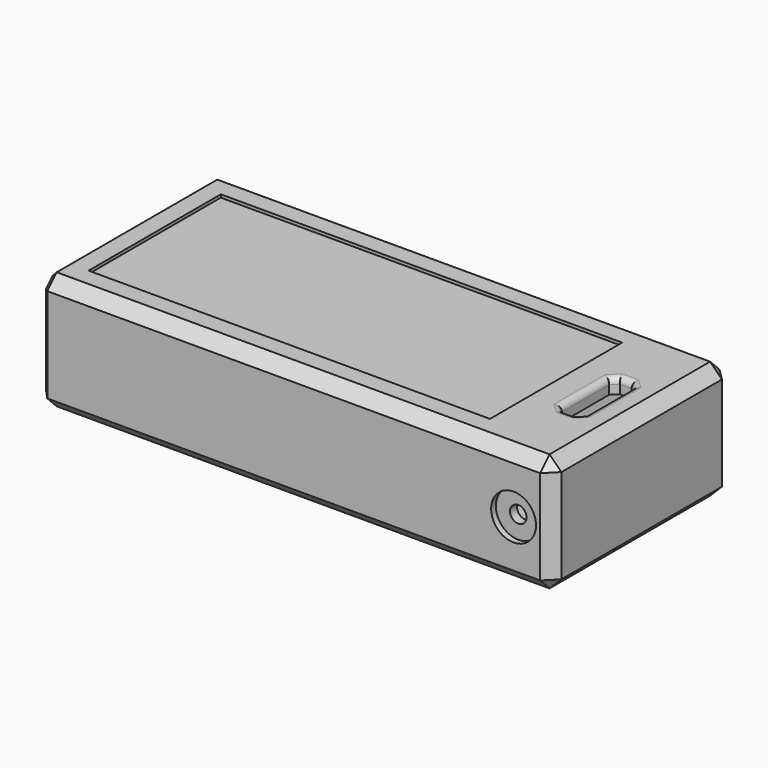
from build123d import *

# Parameters (mm, degrees)
BOX011_W           = 34
BOX011_H           = 14
BOX011_DEPTH       = 0.25
BOX010_W           = 2
BOX010_H           = 6
BOX010_DEPTH       = 11
CHAMFER002_SIZE    = 0.5
CYLINDER003_R      = 1.9
CYLINDER003_DEPTH  = 0.5
CYLINDER002_R      = 1.9
CYLINDER002_DEPTH  = 0.5
CYLINDER001_R      = 0.7
CYLINDER001_DEPTH  = 5
CYLINDER_R         = 0.7
CYLINDER_DEPTH     = 5
BOX009_W           = 42.5
BOX009_H           = 16.5
BOX009_DEPTH       = 7.5
BOX007_W           = 43.25
BOX007_H           = 19
BOX007_DEPTH       = 10
FILLET_R           = 0.5
FILLET001_R        = 0.5
CHAMFER002002_SIZE = 1
CHAMFER002003_SIZE = 0.5


with BuildPart() as cube011:
    # Box011 → Box011 (new body)
    with BuildSketch(Plane(origin=(2, 1, 8.25), x_dir=(1, 0, 0), z_dir=(0, 0, 1))):
        with Locations((17, 7)):
            Rectangle(BOX011_W, BOX011_H)
    extrude(amount=BOX011_DEPTH)


with BuildPart() as chamfer002:
    # Box010 → Box010 (new body)
    with BuildSketch(Plane(origin=(38.5, 5, -2), x_dir=(1, 0, 0), z_dir=(0, 0, 1))):
        with Locations((1, 3)):
            Rectangle(BOX010_W, BOX010_H)
    extrude(amount=BOX010_DEPTH)

    # Chamfer002
    chamfer002_edges = [chamfer002.edges().sort_by_distance(p)[0] for p in [
        (38.5, 5, 3.5),
        (38.5, 11, 3.5),
        (40.5, 5, 3.5),
        (40.5, 11, 3.5),
    ]]
    chamfer(chamfer002_edges, length=CHAMFER002_SIZE)


with BuildPart() as cylinder003:
    # Cylinder003 → Cylinder003 (new body)
    with BuildSketch(Plane(origin=(40, -1, 3.5), x_dir=(1, 0, 0), z_dir=(0, -1, 0))):
        Circle(CYLINDER003_R)
    extrude(amount=CYLINDER003_DEPTH)


with BuildPart() as cylinder002:
    # Cylinder002 → Cylinder002 (new body)
    with BuildSketch(Plane(origin=(40, 17.5, 3.5), x_dir=(1, 0, 0), z_dir=(0, -1, 0))):
        Circle(CYLINDER002_R)
    extrude(amount=CYLINDER002_DEPTH)


with BuildPart() as cylinder001:
    # Cylinder001 → Cylinder001 (new body)
    with BuildSketch(Plane(origin=(40, 17.5, 3.5), x_dir=(1, 0, 0), z_dir=(0, -1, 0))):
        Circle(CYLINDER001_R)
    extrude(amount=CYLINDER001_DEPTH)


with BuildPart() as fusion001002002:
    # Cylinder → Cylinder (new body)
    with BuildSketch(Plane(origin=(40, 3.5, 3.5), x_dir=(1, 0, 0), z_dir=(0, -1, 0))):
        Circle(CYLINDER_R)
    extrude(amount=CYLINDER_DEPTH)

    # Fusion001002: union Cylinder001
    add(cylinder001.part)

    # Fusion001002002: union Cylinder003, Cylinder002
    add(cylinder003.part)
    add(cylinder002.part)


with BuildPart() as cube009:
    # Box009 → Box009 (new body)
    with BuildSketch(Plane(origin=(0, -0.25, -0.25), x_dir=(1, 0, 0), z_dir=(0, 0, 1))):
        with Locations((21.25, 8.25)):
            Rectangle(BOX009_W, BOX009_H)
    extrude(amount=BOX009_DEPTH)


with BuildPart() as cut003006:
    # Box007 → Box007 (new body)
    with BuildSketch(Plane(origin=(0, -1.5, -1.5), x_dir=(1, 0, 0), z_dir=(0, 0, 1))):
        with Locations((21.625, 9.5)):
            Rectangle(BOX007_W, BOX007_H)
    extrude(amount=BOX007_DEPTH)

    # Cut003: cut Cube009
    add(cube009.part, mode=Mode.SUBTRACT)

    # Cut003003: cut Fusion001002002
    add(fusion001002002.part, mode=Mode.SUBTRACT)

    # Cut003004: cut Chamfer002
    add(chamfer002.part, mode=Mode.SUBTRACT)

    # Fillet
    fillet_edges = [cut003006.edges().sort_by_distance(p)[0] for p in [
        (38.75, 5.25, 8.5),
        (39.5, 5, 8.5),
        (40.25, 5.25, 8.5),
        (40.5, 8, 8.5),
        (40.25, 10.75, 8.5),
        (39.5, 11, 8.5),
        (38.75, 10.75, 8.5),
        (38.5, 8, 8.5),
    ]]
    fillet(fillet_edges, radius=FILLET_R)

    # Fillet001
    fillet001_edges = [cut003006.edges().sort_by_distance(p)[0] for p in [
        (38.75, 5.25, -1.5),
        (39.5, 5, -1.5),
        (40.25, 5.25, -1.5),
        (40.5, 8, -1.5),
        (40.25, 10.75, -1.5),
        (39.5, 11, -1.5),
        (38.75, 10.75, -1.5),
        (38.5, 8, -1.5),
    ]]
    fillet(fillet001_edges, radius=FILLET001_R)

    # Chamfer002002
    chamfer002002_edges = [cut003006.edges().sort_by_distance(p)[0] for p in [
        (21.625, 17.5, -1.5),
        (21.625, -1.5, -1.5),
        (43.25, 8, -1.5),
        (43.25, 17.5, 3.5),
        (21.625, 17.5, 8.5),
        (43.25, -1.5, 3.5),
        (21.625, -1.5, 8.5),
        (43.25, 8, 8.5),
    ]]
    chamfer(chamfer002002_edges, length=CHAMFER002002_SIZE)

    # Chamfer002003
    chamfer002003_edges = [cut003006.edges().sort_by_distance(p)[0] for p in [
        (0, 8, -1.5),
        (0, -1.5, 3.5),
        (0, -1, -1),
        (0, -1, 8),
        (0, 8, 8.5),
        (0, 17, -1),
        (0, 17, 8),
        (0, 17.5, 3.5),
    ]]
    chamfer(chamfer002003_edges, length=CHAMFER002003_SIZE)

    # Cut003006: cut Cube011
    add(cube011.part, mode=Mode.SUBTRACT)


solid = cut003006.part
